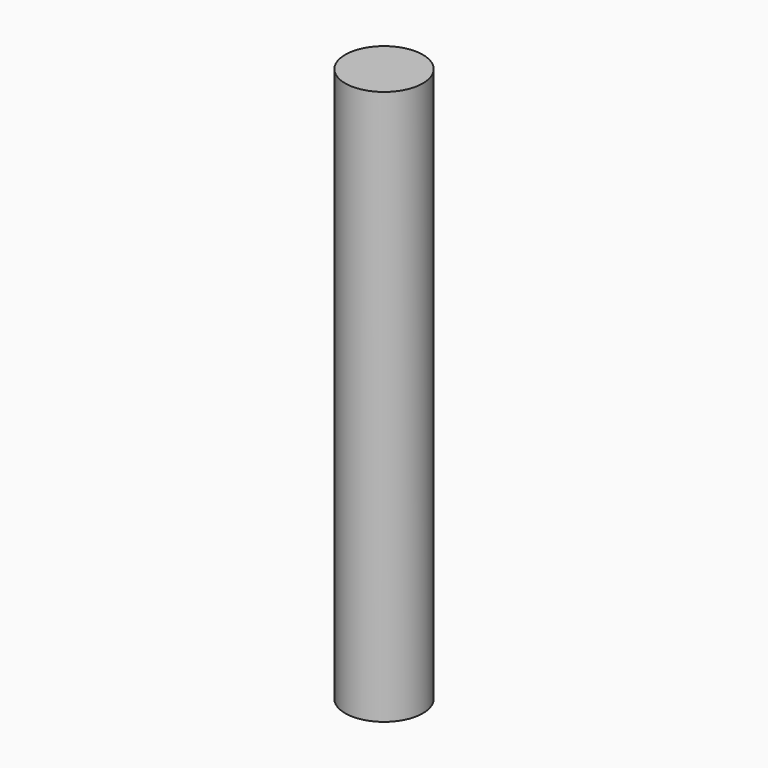
from build123d import *

# Parameters (mm, degrees)
CYLINDER_R     = 0.7
CYLINDER_DEPTH = 10


with BuildPart() as cilindro:
    # Cylinder → Cylinder (new body)
    with BuildSketch(Plane(origin=(2, 1.75, -8), x_dir=(1, 0, 0), z_dir=(0, 0, 1))):
        Circle(CYLINDER_R)
    extrude(amount=CYLINDER_DEPTH)


with BuildPart() as part_mirroring:
    # Part__Mirroring: instance of Cilindro
    add(cilindro.part.mirror(Plane(origin=(0, 0, 0), x_dir=(0, 1, 0), z_dir=(0, 0, 1))))


with BuildPart() as part_mirroring_1:
    # Part__Mirroring placement: moved
    add(part_mirroring.part.moved(Location((0, 13.5, -6))))


with BuildPart() as part_mirroring002:
    # Part__Mirroring002: instance of Part__Mirroring
    add(part_mirroring_1.part.mirror(Plane(origin=(0, 0, 0), x_dir=(0, 1, 0), z_dir=(0, 0, 1))))


with BuildPart() as part_mirroring002_1:
    # Part__Mirroring002 placement: moved
    add(part_mirroring002.part.moved(Location((18, 0, -6))))


solid = part_mirroring002_1.part
